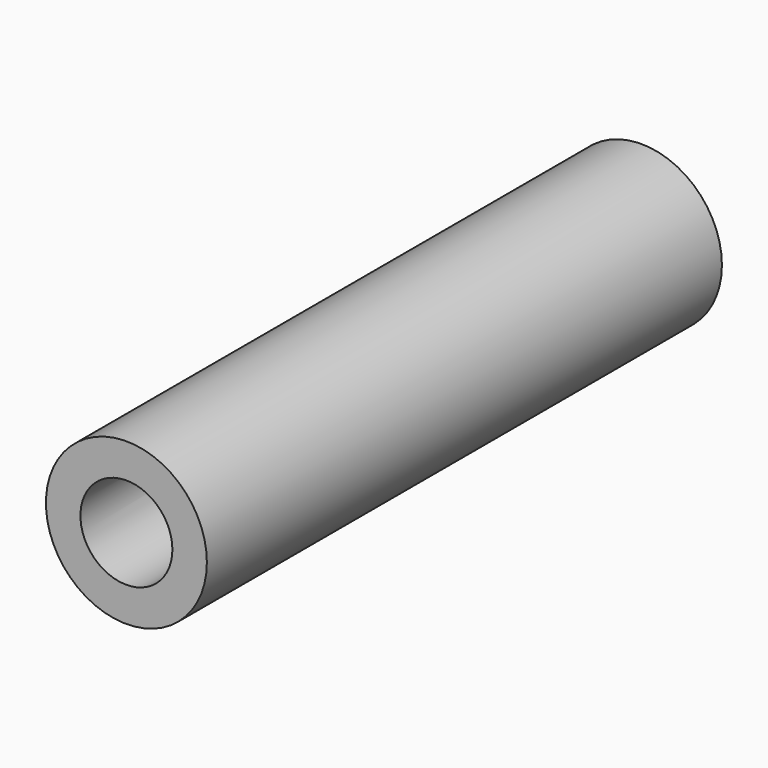
from build123d import *

# Parameters (mm, degrees)
F0_R     = 11.1125
F1_DEPTH = 44.45
F2_R     = 6.35
F3_DEPTH = 88.9
F4_R     = 1.7907
F5_DEPTH = 11.1135
F6_R     = 1.7907
F7_DEPTH = 11.1135001


with BuildPart() as f1:
    # F0 (on Front) → F1 (new body, symmetric)
    with BuildSketch(Plane.XZ):
        Circle(F0_R)
    extrude(amount=F1_DEPTH, both=True)

    # F2 (on face) → F3 (cut)
    with BuildSketch(Plane.XZ.offset(44.45)):
        Circle(F2_R)
    extrude(amount=-F3_DEPTH, mode=Mode.SUBTRACT)

    # F4 (on Right) → F5 (cut, through all)
    with BuildSketch(Plane.YZ):
        with Locations((-31.75, 0)):
            Circle(F4_R)
    extrude(amount=-F5_DEPTH, mode=Mode.SUBTRACT)

    # F6 (on Right) → F7 (cut, through all)
    with BuildSketch(Plane.YZ):
        with Locations((31.75, 0)):
            Circle(F6_R)
    extrude(amount=-F7_DEPTH, mode=Mode.SUBTRACT)


solid = f1.part
